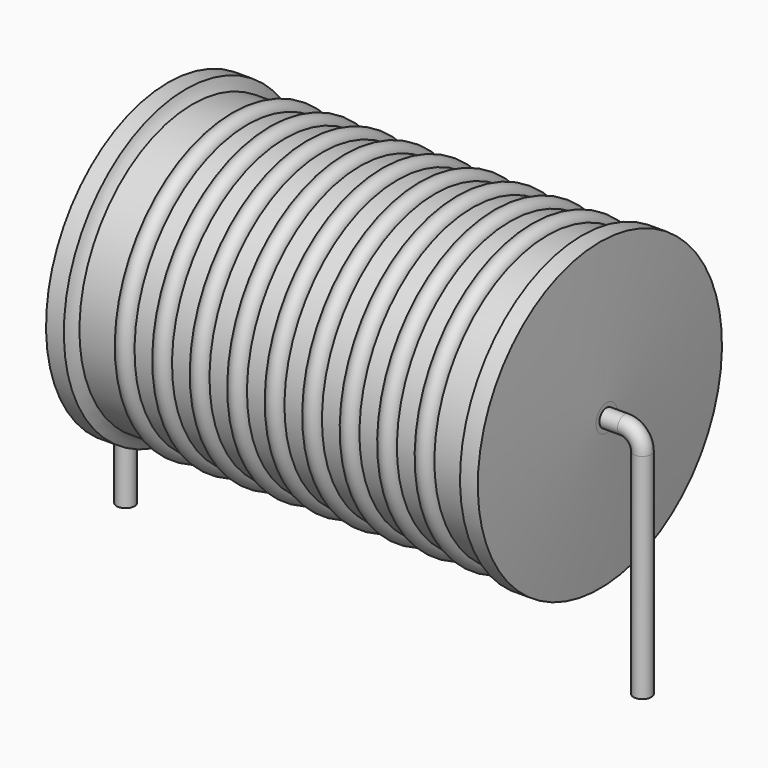
from build123d import *

# Parameters (mm, degrees)
SKETCH_R = 0.35


with BuildPart() as revolution:
    # Sketch002 → Revolution (revolve)
    with BuildSketch(Plane.XZ):
        with BuildLine():
            Line((1.6725, 12.1), (2.3725, 12.1))
            ThreePointArc((2.3725, 12.1), (2.480247, 11.867148), (2.635, 11.6625))
            Line((2.635, 11.6625), (17.685, 11.6625))
            ThreePointArc((17.685, 11.6625), (17.839753, 11.867148), (17.9475, 12.1))
            Line((17.9475, 12.1), (18.6475, 12.1))
            ThreePointArc((18.91, 6.625), (18.795114, 9.363285), (18.6475, 12.1))
            Line((18.91, 6.1), (18.91, 6.625))
            Line((1.41, 6.1), (18.91, 6.1))
            Line((1.41, 6.1), (1.41, 6.625))
            ThreePointArc((1.6725, 12.1), (1.524886, 9.363285), (1.41, 6.625))
        make_face()
    revolve(axis=Axis((1.41, 0, 6.1), (1, 0, 0)))


with BuildPart() as sweep_body:
    # Sweep: sweep along a path in Sketch001
    with BuildLine(Plane.XZ) as sweep_path:
        Line((0, -3), (0, 5.4))
        ThreePointArc((0, 5.4), (0.205028, 5.894977), (0.700007, 6.1))
        Line((0.700007, 6.1), (19.62, 6.1))
        ThreePointArc((19.62, 6.1), (20.114975, 5.894975), (20.32, 5.4))
        Line((20.32, 5.4), (20.32, -3))
    # Sketch → Sweep (sweep)
    with BuildSketch(Plane.XY.offset(-2)):
        Circle(SKETCH_R)
    sweep(path=sweep_path.line)


with BuildPart() as revolution001:
    # Sketch003 → Revolution001 (revolve)
    with BuildSketch(Plane.XZ):
        with BuildLine():
            ThreePointArc((4.808684, 11.5925), (4.440263, 11.960921), (4.071842, 11.5925))
            Line((3.335, 11.5925), (4.071842, 11.5925))
            Line((3.335, 11.5925), (3.335, 10.3925))
            Line((3.335, 10.3925), (17.335, 10.3925))
            Line((17.335, 10.3925), (17.335, 11.5925))
            Line((16.598158, 11.5925), (17.335, 11.5925))
            ThreePointArc((16.598158, 11.5925), (16.229737, 11.960921), (15.861316, 11.5925))
            Line((15.124474, 11.5925), (15.861316, 11.5925))
            ThreePointArc((15.124474, 11.5925), (14.756053, 11.960921), (14.387632, 11.5925))
            Line((13.650789, 11.5925), (14.387632, 11.5925))
            ThreePointArc((13.650789, 11.5925), (13.282368, 11.960921), (12.913947, 11.5925))
            Line((12.177105, 11.5925), (12.913947, 11.5925))
            ThreePointArc((12.177105, 11.5925), (11.808684, 11.960921), (11.440263, 11.5925))
            Line((10.703421, 11.5925), (11.440263, 11.5925))
            ThreePointArc((10.703421, 11.5925), (10.335, 11.960921), (9.966579, 11.5925))
            Line((9.229737, 11.5925), (9.966579, 11.5925))
            ThreePointArc((9.229737, 11.5925), (8.861316, 11.960921), (8.492895, 11.5925))
            Line((7.756053, 11.5925), (8.492895, 11.5925))
            ThreePointArc((7.756053, 11.5925), (7.387632, 11.960921), (7.019211, 11.5925))
            Line((6.282368, 11.5925), (7.019211, 11.5925))
            ThreePointArc((6.282368, 11.5925), (5.913947, 11.960921), (5.545526, 11.5925))
            Line((4.808684, 11.5925), (5.545526, 11.5925))
        make_face()
    revolve(axis=Axis((1.8475, 0, 6.1), (1, 0, 0)))


solid = Compound([revolution.part, sweep_body.part, revolution001.part])
